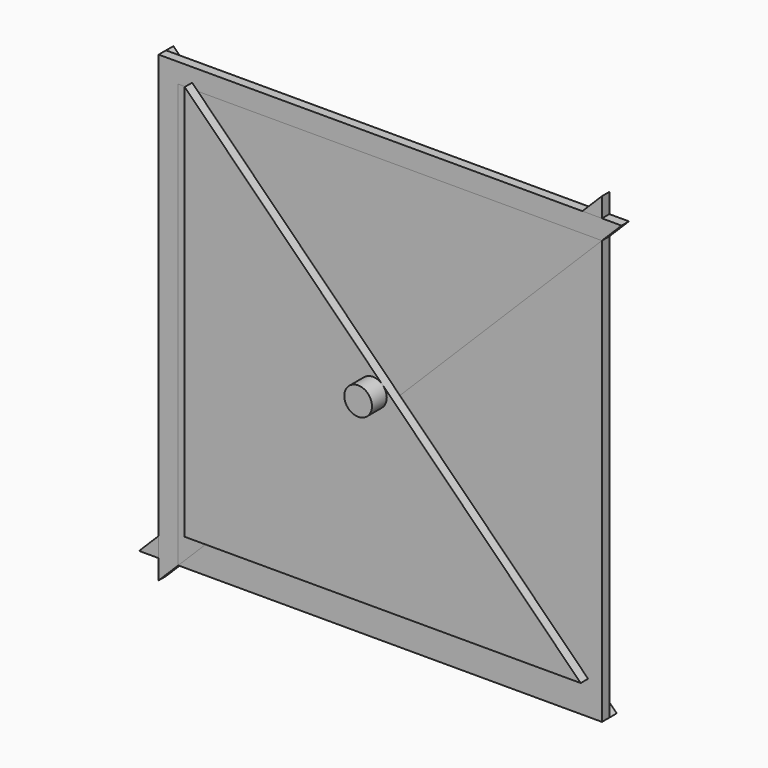
from build123d import *

# Parameters (mm, degrees)
F1_R      = 1.27
F2_DEPTH  = 3.175
F3_R      = 1.27
F4_DEPTH  = 3.175
F6_R      = 1.27
F7_DEPTH  = 3.175
F8_R      = 1.5875
F9_DEPTH  = 3.175
F11_ANGLE = 180
F12_R     = 1.5875
F13_DEPTH = 3.175
F14_R     = 1.5875
F15_DEPTH = 3.175
F17_ANGLE = 90
F18_R     = 4.7625
F19_DEPTH = 6.35


with BuildPart() as f2:
    # F1 (on Front) → F2 (new body)
    with BuildSketch(Plane.XZ):
        with BuildLine():
            Line((76.2, 76.2), (0, 0))
            ThreePointArc((0, 0), (-4.4901280605, 0), (-4.4901280605, -4.4901280605))
            Line((-4.4901280605, -4.4901280605), (-76.2, -76.2))
            Line((-76.2, -76.2), (76.2, -76.2))
            Line((76.2, -76.2), (76.2, 76.2))
        make_face()
        with Locations((-2.2450640303, -2.2450640303)):
            Circle(F1_R, mode=Mode.SUBTRACT)
    extrude(amount=F2_DEPTH)


with BuildPart() as f4:
    # F3 (on Front) → F4 (new body)
    with BuildSketch(Plane.XZ):
        Polygon((76.2, -76.2), (-76.2, 76.2), (-76.2, -76.2), align=None)
        with Locations((-2.2450640303, -2.2450640303)):
            Circle(F3_R, mode=Mode.SUBTRACT)
    extrude(amount=-F4_DEPTH)


with BuildPart() as f7:
    # F6 (on face) → F7 (new body)
    with BuildSketch(Plane.XZ.offset(3.175)):
        Polygon((76.2, 80.6901280605), (-4.4901280605, 0), (-80.6901280605, -76.2), (-76.2, -76.2), (76.2, -76.2), (76.2, 76.2), align=None)
        with Locations((-2.2450640303, -2.2450640303)):
            Circle(F6_R, mode=Mode.SUBTRACT)
    extrude(amount=-F7_DEPTH)


with BuildPart() as f9:
    # F8 (on Front) → F9 (new body)
    with BuildSketch(Plane.XZ):
        Polygon((76.2, -76.2), (76.2, 76.2), (76.2, 82.9351920908), (-3.3675960454, 3.3675960454), (-82.9351920908, -76.2), (-76.2, -76.2), align=None)
        Circle(F8_R, mode=Mode.SUBTRACT)
    extrude(amount=F9_DEPTH)


with BuildPart() as f11_1:
    # F11: copy of F9
    add(f9.part.rotate(Axis((0, -66.6157800198, 0), (0, -1, 0)), F11_ANGLE))


with BuildPart() as f13:
    # F12 (on Front) → F13 (new body)
    with BuildSketch(Plane.XZ):
        Polygon((-69.4648079092, -76.2), (76.2, 69.4648079092), (-69.4648079092, 69.4648079092), align=None)
        Circle(F12_R, mode=Mode.SUBTRACT)
    extrude(amount=F13_DEPTH)


with BuildPart() as f15:
    # F14 (on face) → F15 (new body)
    with BuildSketch(Plane.XZ.offset(3.175)):
        Polygon((-64.7023079092, -71.4375), (71.4375, 64.7023079092), (-64.7023079092, 64.7023079092), align=None)
        Circle(F14_R, mode=Mode.SUBTRACT)
    extrude(amount=F15_DEPTH)


with BuildPart() as f15_1:
    # F17: moved
    add(f15.part.rotate(Axis((0, -18.7559987336, 0), (0, -1, 0)), F17_ANGLE))


with BuildPart() as f19:
    # F18 (on face) → F19 (new body)
    with BuildSketch(Plane.XZ.offset(6.35)):
        Circle(F18_R)
    extrude(amount=F19_DEPTH)


solid = Compound([f2.part, f4.part, f7.part, f9.part, f11_1.part, f13.part, f15_1.part, f19.part])
